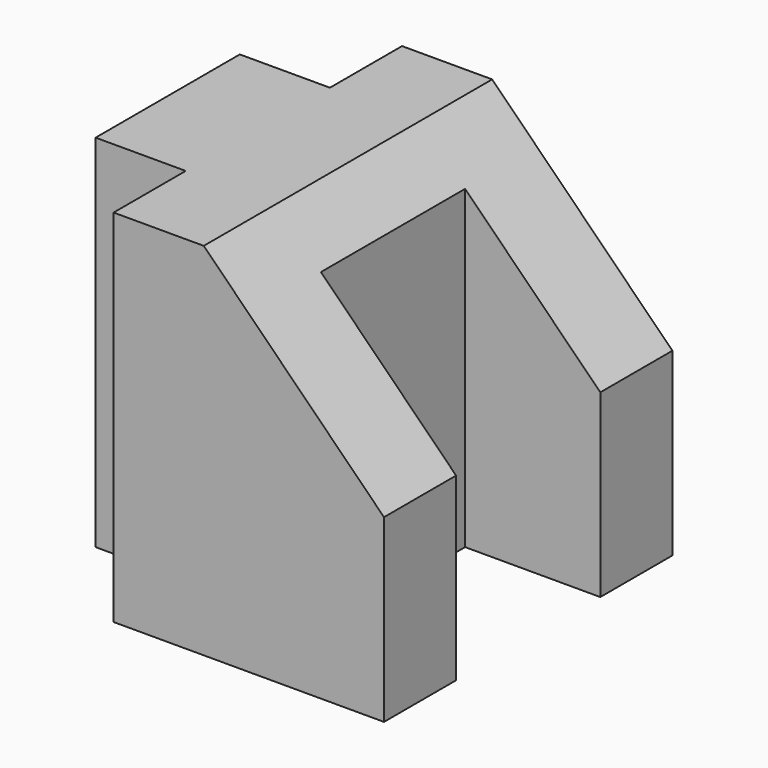
from build123d import *

# Parameters (mm, degrees)
F1_DEPTH = 50.8
F3_DEPTH = 50.8
F5_DEPTH = 50.8


with BuildPart() as f1:
    # F0 (on Top) → F1 (new body)
    with BuildSketch(Plane.XY):
        Polygon((-16.604074, 21.182347), (-29.304074, 21.182347), (-29.304074, -4.217653), (-16.604074, -4.217653), (-16.604074, -16.917653), (21.495926, -16.917653), (21.495926, 33.882347), (-16.604074, 33.882347), align=None)
    extrude(amount=-F1_DEPTH)

    # F2 (on face) → F3 (cut)
    with BuildSketch(Plane.XY):
        Polygon((21.495926, -4.217653), (21.495926, 8.482347), (21.495926, 21.182347), (2.445926, 21.182347), (2.445926, -4.217653), align=None)
    extrude(amount=-F3_DEPTH, mode=Mode.SUBTRACT)

    # F4 (on face) → F5 (cut)
    with BuildSketch(Plane.XZ.offset(16.917653)):
        Polygon((-3.904074, 0), (21.495926, -25.4), (21.495926, 0), align=None)
    extrude(amount=-F5_DEPTH, mode=Mode.SUBTRACT)


solid = f1.part
